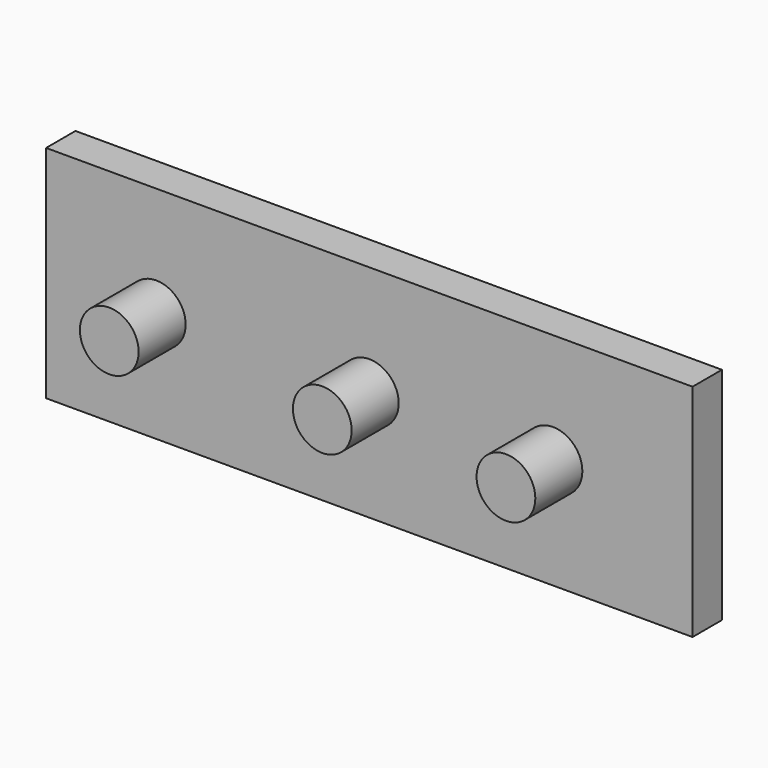
from build123d import *

# Parameters (mm, degrees)
F0_W     = 88
F0_H     = 30
F1_DEPTH = 5
F2_R     = 4
F3_DEPTH = 8
F4_R     = 4
F5_DEPTH = 8


with BuildPart() as f1:
    # F0 (on Front) → F1 (new body)
    with BuildSketch(Plane.XZ):
        Rectangle(F0_W, F0_H)
    extrude(amount=F1_DEPTH)

    # F2 (on face) → F3 (join)
    with BuildSketch(Plane.XZ.offset(5)):
        with Locations((-29, 0)):
            Circle(F2_R)
    extrude(amount=F3_DEPTH)

    # F4 (on face) → F5 (join)
    with BuildSketch(Plane.XZ.offset(5)):
        Circle(F4_R)
        with Locations((25, 0)):
            Circle(F4_R)
    extrude(amount=F5_DEPTH)


solid = f1.part
